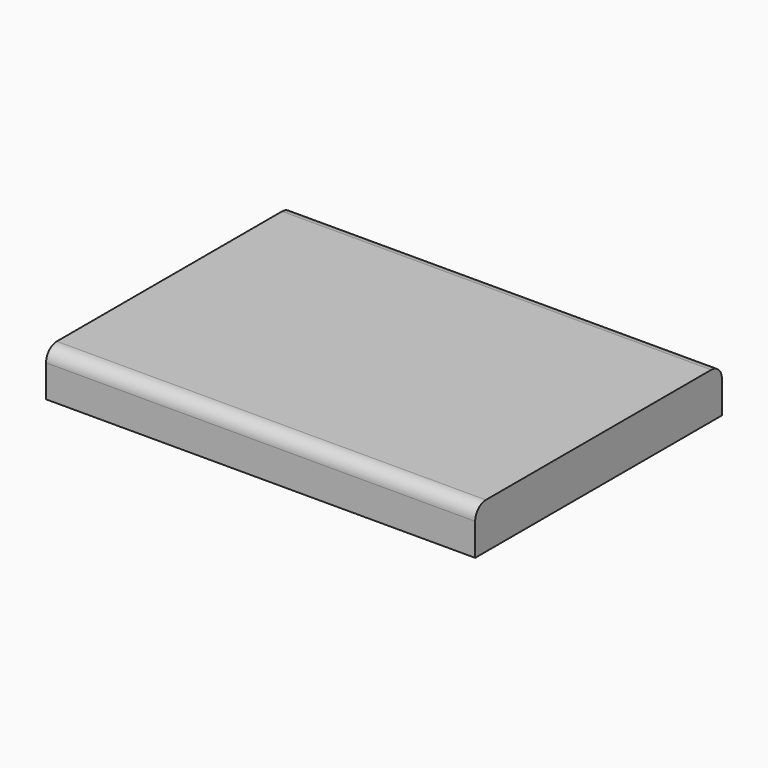
from build123d import *

# Parameters (mm, degrees)
SKETCH_W  = 1.6
SKETCH_H  = 1.15
PAD_DEPTH = 0.17
FILLET_R  = 0.05


with BuildPart() as part:
    # Sketch → Pad (new body)
    with BuildSketch(Plane.XY):
        Rectangle(SKETCH_W, SKETCH_H)
    extrude(amount=PAD_DEPTH)

    # Fillet
    fillet_edges = [part.edges().sort_by_distance(p)[0] for p in [
        (0, -0.575, 0.17),
        (0, 0.575, 0.17),
    ]]
    fillet(fillet_edges, radius=FILLET_R)


solid = part.part
